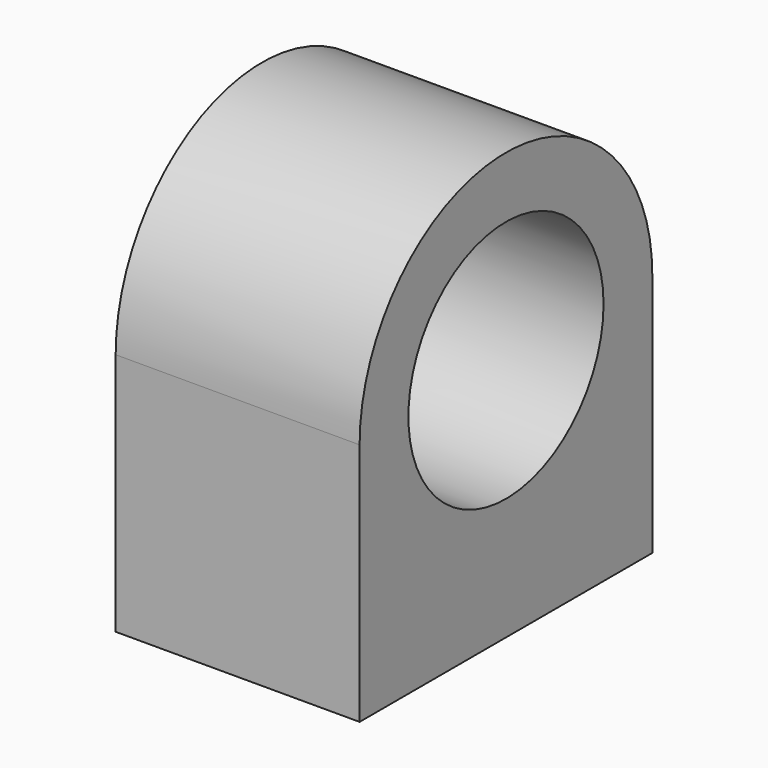
from build123d import *

# Parameters (mm, degrees)
F0_R     = 12.7
F1_DEPTH = 25.4
F3_D     = 6.35
F3_DEPTH = 12.7
F3_TIP   = 1.9077324654


with BuildPart() as f1:
    # F0 (on Right) → F1 (new body)
    with BuildSketch(Plane.YZ):
        with BuildLine():
            Line((19.05, -25.4), (19.05, 0))
            ThreePointArc((19.05, 0), (0, 19.05), (-19.05, 0))
            Line((-19.05, 0), (-19.05, -25.4))
            Line((-19.05, -25.4), (19.05, -25.4))
        make_face()
        Circle(F0_R, mode=Mode.SUBTRACT)
    extrude(amount=F1_DEPTH)

    # F3
    with Locations(Plane(origin=(0, 0, -25.4), x_dir=(1, 0, 0), z_dir=(0, 0, -1))):
        with Locations((12.7, 12.7), (12.7, -12.7)):
            Hole(F3_D / 2, depth=F3_DEPTH)
            with Locations((0, 0, -(F3_DEPTH + F3_TIP / 2))):  # 118° drill point
                Cone(0, F3_D / 2, F3_TIP, mode=Mode.SUBTRACT)


solid = f1.part
